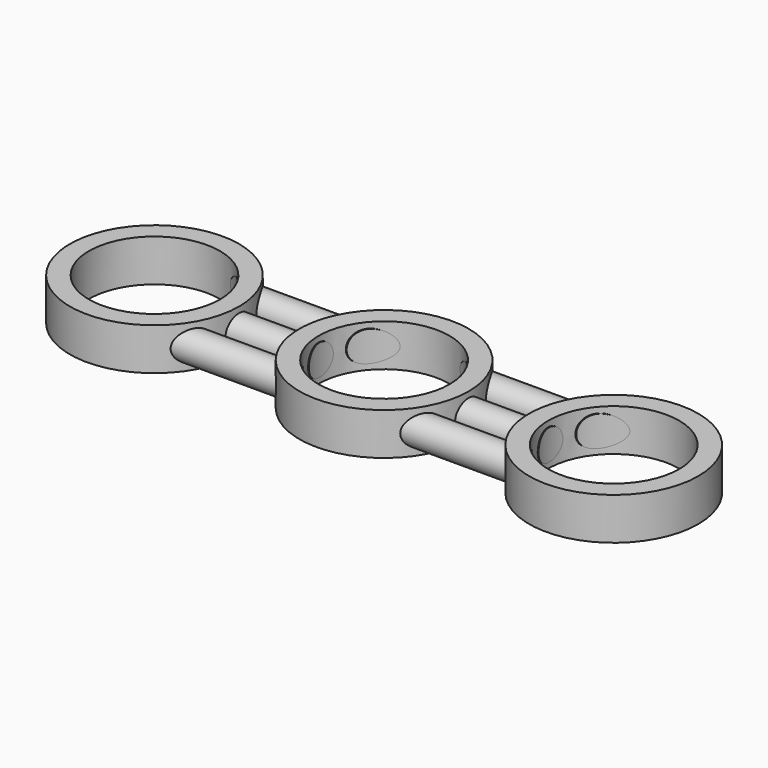
from build123d import *

# Parameters (mm, degrees)
F0_R     = 14.0462
F0_R_2   = 10.875
F1_DEPTH = 7
F2_R     = 2.54
F3_DEPTH = 38.1
F4_R     = 10.75
F5_DEPTH = 25.4


with BuildPart() as f1:
    # F0 (on Top) → F1 (new body)
    with BuildSketch(Plane.XY):
        with Locations((-38.1, 0)):
            Circle(F0_R)
        with Locations((-38.1, 0)):
            Circle(F0_R_2, mode=Mode.SUBTRACT)
        Circle(F0_R)
        Circle(F0_R_2, mode=Mode.SUBTRACT)
        with Locations((38.1, 0)):
            Circle(F0_R)
        with Locations((38.1, 0)):
            Circle(F0_R_2, mode=Mode.SUBTRACT)
    extrude(amount=F1_DEPTH)

    # F2 (on Right) → F3 (join, symmetric)
    with BuildSketch(Plane.YZ):
        with Locations((-7, 3.5)):
            Circle(F2_R)
        with Locations((0, 3.5)):
            Circle(F2_R)
        with Locations((7, 3.5)):
            Circle(F2_R)
    extrude(amount=F3_DEPTH, both=True)

    # F4 (on face) → F5 (cut)
    with BuildSketch(Plane.XY.offset(7)):
        with Locations((-38.1, 0)):
            Circle(F4_R)
        Circle(F4_R)
        with Locations((38.1, 0)):
            Circle(F4_R)
    extrude(amount=-F5_DEPTH, mode=Mode.SUBTRACT)


solid = f1.part
